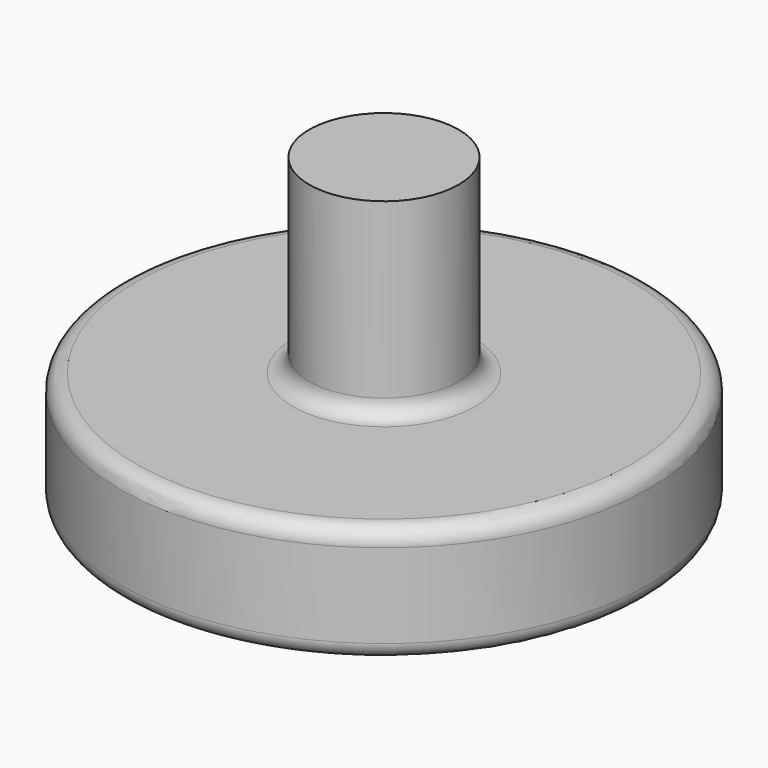
from build123d import *


with BuildPart() as f1:
    # F0 (on Front) → F1 (revolve)
    with BuildSketch(Plane.XZ):
        with BuildLine():
            ThreePointArc((38.661046, 16.566264), (39.922222, 17.490227), (40.403379, 18.977763))
            Line((40.403379, 18.977763), (40.403379, 31.886176))
            ThreePointArc((40.403379, 31.886176), (39.65943, 33.682227), (37.863379, 34.426176))
            Line((37.863379, 34.426176), (13.97, 34.426176))
            ThreePointArc((13.97, 34.426176), (12.173949, 35.170125), (11.43, 36.966176))
            Line((11.43, 36.966176), (11.43, 63.5))
            Line((11.43, 63.5), (0, 63.5))
            Line((0, 63.5), (0, 0))
            Line((0, 0), (11.147797, 7.372251))
            ThreePointArc((11.147797, 7.372251), (11.439796, 7.538695), (11.751215, 7.665127))
            Line((11.751215, 7.665127), (38.661046, 16.566264))
        make_face()
    revolve(axis=Axis((0, 0, 31.75), (0, 0, -1)))


solid = f1.part
